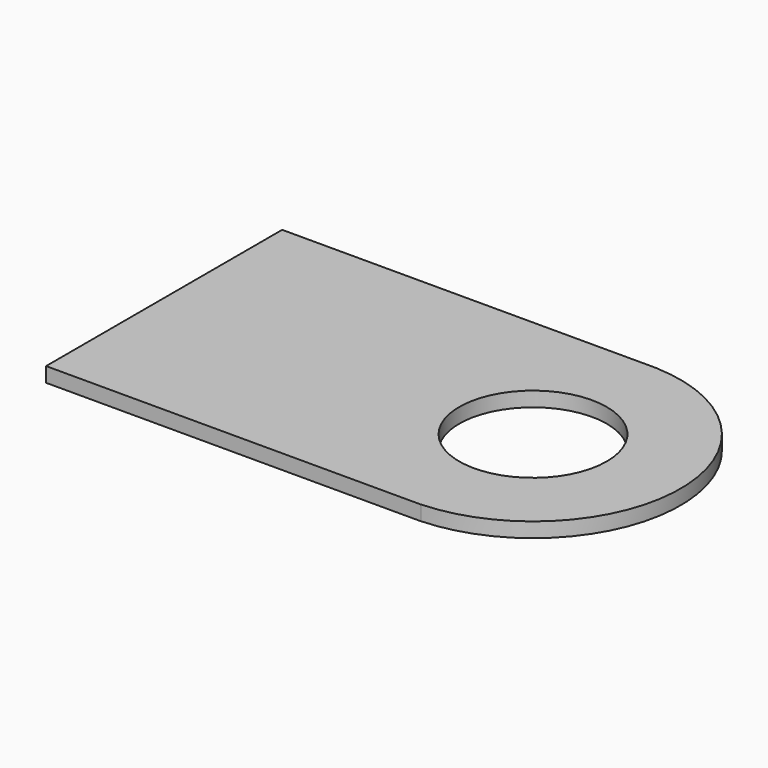
from build123d import *

# Parameters (mm, degrees)
CYLINDER038_R     = 0.5
CYLINDER038_DEPTH = 0.1
BOX015_W          = 2.54
BOX015_H          = 2
BOX015_DEPTH      = 0.1
CYLINDER037_R     = 0.5
CYLINDER037_DEPTH = 0.1
CYLINDER036_R     = 1
CYLINDER036_DEPTH = 0.1


with BuildPart() as cylinder038:
    # Cylinder038 → Cylinder038 (new body)
    with BuildSketch(Plane.XY.offset(1)):
        Circle(CYLINDER038_R)
    extrude(amount=CYLINDER038_DEPTH)


with BuildPart() as cut026:
    # Box015 → Box015 (new body)
    with BuildSketch(Plane(origin=(-2.5, -1, 1), x_dir=(1, 0, 0), z_dir=(0, 0, 1))):
        with Locations((1.27, 1)):
            Rectangle(BOX015_W, BOX015_H)
    extrude(amount=BOX015_DEPTH)

    # Cut026: cut Cylinder038
    add(cylinder038.part, mode=Mode.SUBTRACT)


with BuildPart() as cylinder037:
    # Cylinder037 → Cylinder037 (new body)
    with BuildSketch(Plane.XY.offset(1)):
        Circle(CYLINDER037_R)
    extrude(amount=CYLINDER037_DEPTH)


with BuildPart() as fusion012:
    # Cylinder036 → Cylinder036 (new body)
    with BuildSketch(Plane.XY.offset(1)):
        Circle(CYLINDER036_R)
    extrude(amount=CYLINDER036_DEPTH)

    # Cut025: cut Cylinder037
    add(cylinder037.part, mode=Mode.SUBTRACT)

    # Fusion012: union Cut026
    add(cut026.part)


with BuildPart() as fusion012_1:
    # Fusion012 placement: moved
    add(fusion012.part.moved(Location((0, -30.48, 5.5))))


solid = fusion012_1.part
